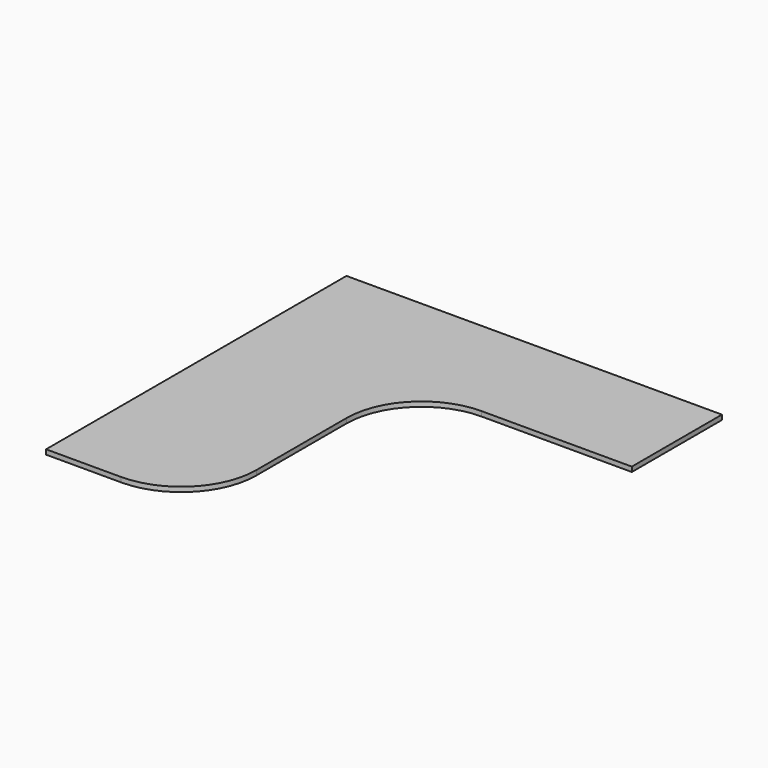
from build123d import *

# Parameters (mm, degrees)
F1_DEPTH = 25.4


with BuildPart() as f1:
    # F0 (on Top) → F1 (new body)
    with BuildSketch(Plane.XY):
        with BuildLine():
            Line((2000.25, 0), (0, 0))
            Line((0, 0), (0, -2000.25))
            Line((0, -2000.25), (400.05, -2000.25))
            ThreePointArc((400.05, -2000.25), (682.928068, -1883.078068), (800.1, -1600.2))
            Line((800.1, -1600.2), (800.1, -1000.125))
            ThreePointArc((800.1, -1000.125), (917.271932, -717.246932), (1200.15, -600.075))
            Line((1200.15, -600.075), (2000.25, -600.075))
            Line((2000.25, -600.075), (2000.25, 0))
        make_face()
    extrude(amount=-F1_DEPTH)


solid = f1.part
